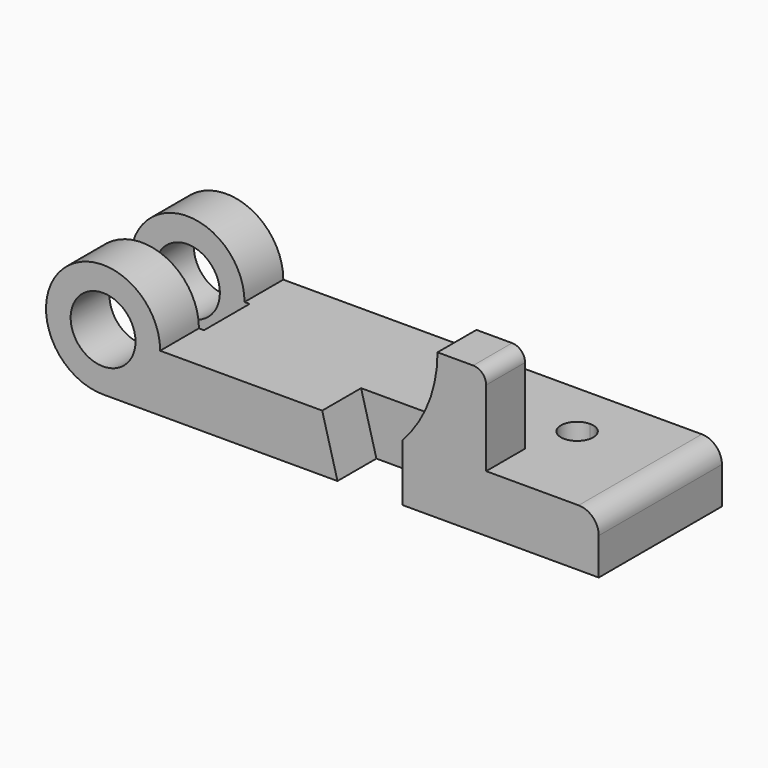
from build123d import *

# Parameters (mm, degrees)
F0_R     = 12.7
F1_DEPTH = 60.325
F3_DEPTH = 19.05
F4_W     = 46.6944214423
F4_H     = 22.3266
F5_DEPTH = 127
F7_DEPTH = 254
F9_DEPTH = 41.275


with BuildPart() as f1:
    # F0 (on Front) → F1 (new body)
    with BuildSketch(Plane.XZ):
        with BuildLine():
            Line((117.2464, 0), (22.352, 0))
            ThreePointArc((22.352, 0), (-15.8052507731, 15.8052507731), (0, -22.352))
            Line((0, -22.352), (194.2084, -22.352))
            Line((194.2084, -22.352), (194.2084, -7.874))
            ThreePointArc((194.2084, -7.874), (191.9021587951, -2.3062412049), (186.3344, 0))
            Line((186.3344, 0), (150.0886, 0))
            Line((150.0886, 0), (150.0886, 29.718))
            ThreePointArc((150.0886, 29.718), (148.6007024484, 33.3101024484), (145.0086, 34.798))
            Line((145.0086, 34.798), (131.0386, 34.798))
            ThreePointArc((131.0386, 34.798), (127.4644153616, 16.0823576341), (117.2464, 0))
        make_face()
        Circle(F0_R, mode=Mode.SUBTRACT)
    extrude(amount=F1_DEPTH)

    # F2 (on face) → F3 (cut)
    with BuildSketch(Plane.XZ.offset(60.325)):
        Polygon((91.8464, -22.352), (117.2464, -22.352), (117.2464, 0), (85.852, 0), align=None)
    extrude(amount=-F3_DEPTH, mode=Mode.SUBTRACT)

    # F4 (on Top) → F5 (cut, symmetric)
    with BuildSketch(Plane.XY):
        with Locations((0.9952107211, -30.1625)):
            Rectangle(F4_W, F4_H)
    extrude(amount=F5_DEPTH, both=True, mode=Mode.SUBTRACT)

    # F6 (on Top) → F7 (cut)
    with BuildSketch(Plane.XY):
        with BuildLine():
            ThreePointArc((155.3464, -16.002), (150.8562719395, -26.8421280605), (161.6964, -22.352))
            ThreePointArc((161.6964, -22.352), (159.8365280605, -17.8618719395), (155.3464, -16.002))
        make_face()
    extrude(amount=-F7_DEPTH, mode=Mode.SUBTRACT)

    # F8 (on face) → F9 (cut)
    with BuildSketch(Plane(origin=(0, 0, 0), x_dir=(-1, 0, 0), z_dir=(0, 1, 0))):
        with BuildLine():
            Line((-150.0886, 29.718), (-150.0886, 0))
            Line((-150.0886, 0), (-117.2464, 0))
            ThreePointArc((-117.2464, 0), (-127.4644153616, 16.0823576341), (-131.0386, 34.798))
            Line((-131.0386, 34.798), (-145.0086, 34.798))
            ThreePointArc((-145.0086, 34.798), (-148.6007024484, 33.3101024484), (-150.0886, 29.718))
        make_face()
    extrude(amount=-F9_DEPTH, mode=Mode.SUBTRACT)


solid = f1.part
